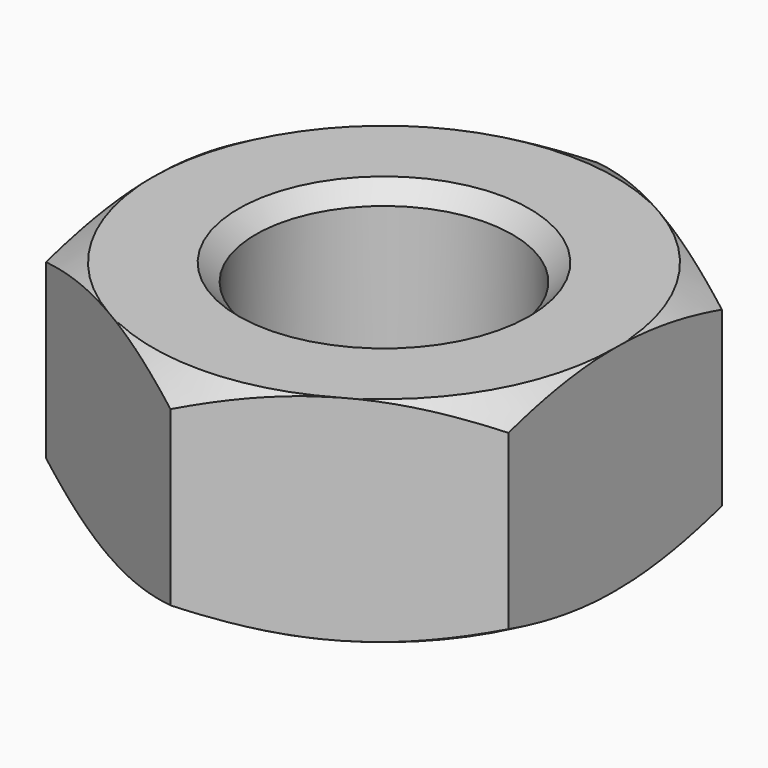
from build123d import *

# Parameters (mm, degrees)
SKETCH_R     = 1.5
PAD_DEPTH    = 1.25
CHAMFER_SIZE = 0.2


with BuildPart() as part:
    # Sketch → Pad (new body, symmetric)
    with BuildSketch(Plane.XY):
        Polygon((2.7, -1.558846), (2.7, 1.558846), (0, 3.117691), (-2.7, 1.558846), (-2.7, -1.558846), (0, -3.117691), align=None)
        Circle(SKETCH_R, mode=Mode.SUBTRACT)
    extrude(amount=PAD_DEPTH, both=True)

    # Sketch001 → Groove (revolve, cut)
    with BuildSketch(Plane.YZ):
        Polygon((-2.7, 1.25), (-3.5, 0.78812), (-3.5, 1.25), align=None)
        Polygon((-2.7, -1.25), (-3.5, -0.78812), (-3.5, -1.25), align=None)
    revolve(axis=Axis((0, 0, 0), (0, 0, 1)), mode=Mode.SUBTRACT)

    # Chamfer
    chamfer_edges = [part.edges().sort_by_distance(p)[0] for p in [
        (-1.5, 0, 1.25),
        (-1.5, 0, -1.25),
    ]]
    chamfer(chamfer_edges, length=CHAMFER_SIZE)


solid = part.part
